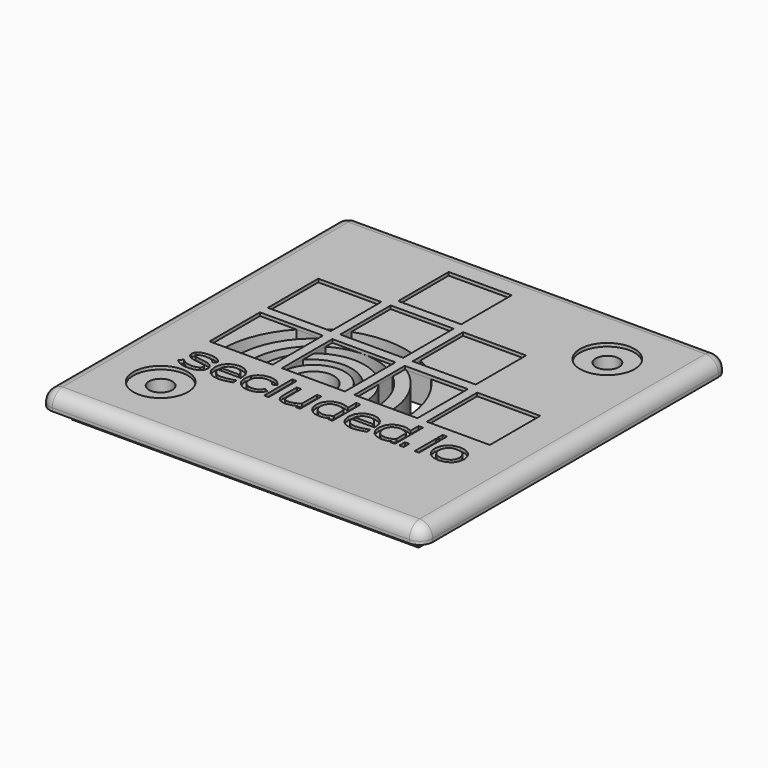
from build123d import *

# Parameters (mm, degrees)
F0_W      = 59
F0_H      = 59
F1_DEPTH  = 2.5
F2_W      = 53.4
F2_H      = 53.4
F3_DEPTH  = 2
F4_R      = 1.8
F5_DEPTH  = 4.501
F6_R      = 2
F7_R      = 2
F8_R      = 4.2
F9_DEPTH  = 0.5
F10_W     = 0.682628
F10_H     = 5.399403
F10_W_2   = 0.678041
F10_H_2   = 1.080825
F10_H_3   = 1.080824
F10_H_4   = 4.100509
F10_W_3   = 9.708501
F10_H_5   = 9.708501
F10_W_4   = 9.708415
F10_W_5   = 9.708393
F10_W_6   = 9.708611
F10_H_6   = 9.708436
F10_H_7   = 9.708611
F11_DEPTH = 0.5
F13_DEPTH = 4.001


with BuildPart() as f1:
    # F0 (on Top) → F1 (new body)
    with BuildSketch(Plane.XY):
        Rectangle(F0_W, F0_H)
    extrude(amount=F1_DEPTH)

    # F2 (on face) → F3 (join)
    with BuildSketch(Plane(origin=(0, 0, 0), x_dir=(1, 0, 0), z_dir=(0, 0, -1))):
        Rectangle(F2_W, F2_H)
    extrude(amount=F3_DEPTH)

    # F4 (on face) → F5 (cut, through all)
    with BuildSketch(Plane.XY.offset(2.5)):
        with Locations((19.115, 19.115)):
            Circle(F4_R)
        with Locations((-19.115, -19.115)):
            Circle(F4_R)
    extrude(amount=-F5_DEPTH, mode=Mode.SUBTRACT)

    # F6
    f6_edges = [f1.edges().sort_by_distance(p)[0] for p in [
        (-29.5, -29.5, 1.25),
        (29.5, -29.5, 1.25),
        (29.5, 29.5, 1.25),
        (-29.5, 29.5, 1.25),
    ]]
    fillet(f6_edges, radius=F6_R)

    # F7
    f7_edges = [f1.edges().sort_by_distance(p)[0] for p in [
        (-29.5, 0, 2.5),
    ]]
    fillet(f7_edges, radius=F7_R)

    # F8 (on face) → F9 (cut)
    with BuildSketch(Plane.XY.offset(2.5)):
        with Locations((19.115, 19.115)):
            Circle(F8_R)
        with Locations((-19.115, -19.115)):
            Circle(F8_R)
    extrude(amount=-F9_DEPTH, mode=Mode.SUBTRACT)

    # F10 (on face) → F11 (cut)
    with BuildSketch(Plane.XY.offset(2.5)):
        Polygon((-16.986727, -13.390506), (-16.849262, -12.835884), (-16.948806, -12.385524), (-17.228498, -12.015747), (-17.484489, -11.854603), (-17.806842, -11.731337), (-18.228739, -11.631794), (-18.783383, -11.53225), (-19.361727, -11.442165), (-19.7125, -11.366322), (-19.906847, -11.29996), (-20.030135, -11.219355), (-20.124938, -11.119811), (-20.143899, -11.015528), (-20.101238, -10.873301), (-19.930591, -10.740576), (-19.484972, -10.61257), (-18.892407, -10.57941), (-18.394667, -10.622072), (-18.00593, -10.745316), (-17.702537, -10.949165), (-17.456048, -11.243078), (-16.920365, -10.778497), (-17.152655, -10.517766), (-17.351764, -10.3329), (-17.536631, -10.200175), (-17.721497, -10.105371), (-18.295102, -9.948902), (-18.892407, -9.910981), (-19.627199, -9.967863), (-20.224482, -10.138531), (-20.66534, -10.479845), (-20.826527, -11.015528), (-20.717482, -11.451667), (-20.414089, -11.783479), (-20.1676, -11.925706), (-19.868926, -12.02999), (-19.470729, -12.115335), (-18.916108, -12.200636), (-18.361486, -12.295461), (-18.015432, -12.371304), (-17.806842, -12.451887), (-17.669356, -12.537232), (-17.560354, -12.684177), (-17.52715, -12.854845), (-17.768921, -13.248279), (-18.261942, -13.447388), (-18.863944, -13.50427), (-19.864207, -13.333624), (-20.570514, -12.835884), (-21.073016, -13.338364), (-20.788606, -13.580134), (-20.542095, -13.760239), (-20.309827, -13.892986), (-20.058554, -13.992551), (-19.494452, -14.120536), (-18.835525, -14.172678), (-18.00949, -14.076695), (-17.375465, -13.788702), align=None)
        Polygon((-15.743558, -12.295461), (-12.192908, -12.295461), (-12.349378, -11.238316), (-12.757032, -10.56045), (-13.444401, -10.076909), (-14.255035, -9.910981), (-15.11305, -10.057948), (-15.786219, -10.451404), (-16.274479, -11.124552), (-16.445147, -11.996787), (-16.283959, -12.916467), (-15.833599, -13.589593), (-15.094089, -14.035213), (-14.255035, -14.172678), (-13.762014, -14.125276), (-13.221613, -14.020992), (-12.723851, -13.902488), (-12.358836, -13.798182), (-12.211869, -13.755521), (-12.259293, -13.096593), (-12.614849, -13.205617), (-13.122047, -13.343082), (-13.700392, -13.46163), (-14.269256, -13.50901), (-14.757537, -13.447388), (-15.203135, -13.243539), (-15.553929, -12.864303), align=None)
        Polygon((-13.098346, -11.290479), (-12.9277, -11.717138), (-15.738796, -11.717138), (-15.568128, -11.290479), (-15.250536, -10.925465), (-14.809657, -10.674214), (-14.255035, -10.574648), (-13.776256, -10.674214), (-13.387519, -10.930205), align=None, mode=Mode.SUBTRACT)
        Polygon((-7.887392, -13.475829), (-7.522377, -12.982808), (-8.133881, -12.674696), (-8.399352, -13.034971), (-8.702745, -13.300421), (-9.07724, -13.456868), (-9.556041, -13.50901), (-10.153346, -13.428427), (-10.655826, -13.162956), (-11.006621, -12.707878), (-11.134627, -12.03947), (-11.006621, -11.399503), (-10.655826, -10.939685), (-10.148606, -10.664733), (-9.556041, -10.574648), (-9.124664, -10.617332), (-8.778588, -10.740576), (-8.484697, -10.963386), (-8.209746, -11.295198), (-7.617181, -10.949165), (-8.029619, -10.479845), (-8.465737, -10.157491), (-8.963476, -9.972625), (-9.556041, -9.910981), (-10.376156, -10.038987), (-11.101446, -10.432443), (-11.618146, -11.096111), (-11.812493, -12.03947), (-11.622886, -13.00653), (-11.110904, -13.670198), (-10.385615, -14.049433), (-9.556041, -14.172678), (-8.868673, -14.087355), (-8.32351, -13.845584), align=None)
        with Locations((-6.83739, -11.392393)):
            Rectangle(F10_W, F10_H)
        Polygon((-2.330362, -14.092095), (-1.643059, -14.092095), (-1.643059, -13.24804), (-1.643059, -9.991586), (-2.325622, -9.991586), (-2.325622, -12.883264), (-2.757021, -13.162956), (-3.131538, -13.343082), (-3.543933, -13.471089), (-3.91371, -13.50901), (-4.368788, -13.437908), (-4.591598, -13.295702), (-4.719561, -13.077611), (-4.752764, -12.76476), (-4.752764, -9.991586), (-5.435392, -9.991586), (-5.435392, -12.7695), (-5.350069, -13.328884), (-5.075117, -13.755521), (-4.582096, -14.068394), (-3.92793, -14.172678), (-2.913447, -13.964088), (-2.614794, -13.831363), (-2.316163, -13.665436), (-2.320904, -13.850324), (-2.330362, -14.016252), align=None)
        Polygon((2.65302, -14.092095), (3.340454, -14.092095), (3.340454, -8.692692), (2.662632, -8.692692), (2.662632, -10.266537), (2.027187, -9.996326), (1.35417, -9.910981), (0.448732, -10.076909), (-0.238702, -10.522528), (-0.679516, -11.200394), (-0.83592, -12.03947), (-0.69852, -12.831122), (-0.281298, -13.51375), (0.406136, -13.992551), (1.363563, -14.172678), (2.036798, -14.082614), (2.662632, -13.802944), (2.657826, -13.921449), (2.65302, -14.035213), align=None)
        Polygon((2.662632, -11.096111), (2.662632, -12.982808), (2.596226, -13.03969), (2.525014, -13.091853), (2.240604, -13.290962), (1.866196, -13.447388), (1.363563, -13.50901), (0.709551, -13.390506), (0.230728, -13.072893), (-0.063294, -12.603572), (-0.158097, -12.03947), (-0.058488, -11.470628), (0.235315, -11.001307), (0.709551, -10.688412), (1.358976, -10.574648), (2.036798, -10.688412), align=None, mode=Mode.SUBTRACT)
        Polygon((4.856216, -12.295461), (8.406975, -12.295461), (8.250353, -11.238316), (7.842523, -10.56045), (7.155308, -10.076909), (6.344673, -9.910981), (5.486637, -10.057948), (4.813402, -10.451404), (4.325186, -11.124552), (4.154584, -11.996787), (4.315793, -12.916467), (4.766219, -13.589593), (5.505641, -14.035213), (6.344673, -14.172678), (6.837695, -14.125276), (7.378118, -14.020992), (7.875945, -13.902488), (8.24096, -13.798182), (8.387752, -13.755521), (8.34035, -13.096593), (7.984947, -13.205617), (7.477508, -13.343082), (6.899295, -13.46163), (6.330475, -13.50901), (5.842259, -13.447388), (5.396639, -13.243539), (5.045823, -12.864303), align=None)
        Polygon((7.501319, -11.290479), (7.672139, -11.717138), (4.861022, -11.717138), (5.031624, -11.290479), (5.349238, -10.925465), (5.790052, -10.674214), (6.344673, -10.574648), (6.823496, -10.674214), (7.212103, -10.930205), align=None, mode=Mode.SUBTRACT)
        Polygon((12.276221, -14.092095), (12.963436, -14.092095), (12.963436, -8.692692), (12.285832, -8.692692), (12.285832, -10.266537), (11.650387, -9.996326), (10.977152, -9.910981), (10.071932, -10.076909), (9.384499, -10.522528), (8.943685, -11.200394), (8.787281, -12.03947), (8.92468, -12.831122), (9.341903, -13.51375), (10.029118, -13.992551), (10.986982, -14.172678), (11.65978, -14.082614), (12.285832, -13.802944), (12.280808, -13.921449), (12.276221, -14.035213), align=None)
        Polygon((12.285832, -11.096111), (12.285832, -12.982808), (12.219208, -13.03969), (12.148214, -13.091853), (11.863804, -13.290962), (11.489396, -13.447388), (10.986982, -13.50901), (10.332533, -13.390506), (9.85371, -13.072893), (9.559688, -12.603572), (9.465103, -12.03947), (9.564712, -11.470628), (9.858516, -11.001307), (10.332533, -10.688412), (10.982176, -10.574648), (11.65978, -10.688412), align=None, mode=Mode.SUBTRACT)
        with Locations((13.969793, -13.551682)):
            Rectangle(F10_W_2, F10_H_2)
        with Locations((16.330595, -9.233104)):
            Rectangle(F10_W, F10_H_3)
        with Locations((16.330595, -12.04184)):
            Rectangle(F10_W, F10_H_4)
        Polygon((21.850709, -12.831122), (21.988108, -12.04895), (21.808331, -11.143512), (21.31531, -10.475105), (20.589867, -10.057948), (19.717632, -9.910981), (18.840592, -10.057948), (18.115367, -10.470386), (17.622346, -11.138772), (17.442132, -12.03947), (17.584337, -12.854845), (18.010953, -13.532711), (18.722197, -13.997291), (19.717632, -14.172678), (20.722461, -13.992551), (21.433486, -13.51375), align=None)
        Polygon((21.187303, -11.437425), (21.30548, -12.04895), (21.210895, -12.603572), (20.921679, -13.072893), (20.428658, -13.399964), (19.722438, -13.518512), (19.006388, -13.399964), (18.503974, -13.072893), (18.214977, -12.603572), (18.119955, -12.04895), (18.238568, -11.437425), (18.57038, -10.972844), (19.072794, -10.678954), (19.717632, -10.57941), (20.357446, -10.678954), (20.860079, -10.972844), align=None, mode=Mode.SUBTRACT)
        with Locations((-16.267368, -2.340459)):
            Rectangle(F10_W_3, F10_H_5)
        with Locations((-5.10951, -2.340459)):
            Rectangle(F10_W_4, F10_H_5)
        with Locations((6.047156, -2.340459)):
            Rectangle(F10_W_5, F10_H_5)
        with Locations((17.205233, -2.340459)):
            Rectangle(F10_W_6, F10_H_5)
        with Locations((-5.10951, 8.888512)):
            Rectangle(F10_W_4, F10_H_6)
        with Locations((6.047156, 8.888512)):
            Rectangle(F10_W_5, F10_H_6)
        with Locations((-16.267368, 8.888512)):
            Rectangle(F10_W_3, F10_H_6)
        with Locations((-5.10951, 20.0536)):
            Rectangle(F10_W_4, F10_H_7)
    extrude(amount=-F11_DEPTH, mode=Mode.SUBTRACT)

    # F12 (on face) → F13 (cut, through all)
    with BuildSketch(Plane.XY.offset(2)):
        with BuildLine():
            Line((2.73984, -7.19471), (4.598991, -7.19471))
            ThreePointArc((4.598991, -7.19471), (3.706457, -3.128542), (1.19296, 0.189994))
            Line((1.19296, 0.189994), (1.19296, -2.515911))
            ThreePointArc((1.19296, -2.515911), (2.343094, -4.73077), (2.73984, -7.19471))
        make_face()
        with BuildLine():
            Line((6.598991, -7.19471), (9.098991, -7.19471))
            ThreePointArc((9.098991, -7.19471), (8.105728, -1.975612), (5.264809, 2.513791))
            Line((5.264809, 2.513791), (1.435259, 2.513791))
            ThreePointArc((1.435259, 2.513791), (5.227763, -1.696549), (6.598991, -7.19471))
        make_face()
        with BuildLine():
            Line((-8.263718, -7.19471), (-1.955303, -7.19471))
            ThreePointArc((-1.955303, -7.19471), (-5.109511, -4.040503), (-8.263718, -7.19471))
        make_face()
        with BuildLine():
            ThreePointArc((-9.963718, -7.19471), (-5.109511, -2.340503), (-0.255303, -7.19471))
            Line((-0.255303, -7.19471), (-0.255303, -3.755023))
            ThreePointArc((-0.255303, -3.755023), (-4.963516, -1.130133), (-9.963718, -3.143909))
            Line((-9.963718, -3.143909), (-9.963718, -7.19471))
        make_face()
        with BuildLine():
            Line((-19.318012, -7.19471), (-16.818012, -7.19471))
            ThreePointArc((-16.818012, -7.19471), (-15.446784, -1.696549), (-11.65428, 2.513791))
            Line((-11.65428, 2.513791), (-15.483831, 2.513791))
            ThreePointArc((-15.483831, 2.513791), (-18.324749, -1.975612), (-19.318012, -7.19471))
        make_face()
        with BuildLine():
            ThreePointArc((-11.413118, 0.189025), (-13.925791, -3.12922), (-14.818012, -7.19471))
            Line((-14.818012, -7.19471), (-12.958862, -7.19471))
            ThreePointArc((-12.958862, -7.19471), (-12.562414, -4.731675), (-11.413118, -2.517441))
            Line((-11.413118, -2.517441), (-11.413118, 0.189025))
        make_face()
        with BuildLine():
            Line((-9.963718, 1.213124), (-9.963718, -1.026325))
            ThreePointArc((-9.963718, -1.026325), (-5.109511, 0.65464), (-0.255303, -1.026325))
            Line((-0.255303, -1.026325), (-0.255303, 1.213124))
            ThreePointArc((-0.255303, 1.213124), (-5.109511, 2.513791), (-9.963718, 1.213124))
        make_face()
        with BuildLine():
            ThreePointArc((3.596291, 4.034294), (2.432272, 4.84701), (1.19296, 5.53951))
            Line((1.19296, 5.53951), (1.19296, 4.034294))
            Line((1.19296, 4.034294), (3.596291, 4.034294))
        make_face()
        with BuildLine():
            Line((-11.413118, 4.034294), (-11.413118, 5.538948))
            ThreePointArc((-11.413118, 5.538948), (-12.65183, 4.846674), (-13.815313, 4.034294))
            Line((-13.815313, 4.034294), (-11.413118, 4.034294))
        make_face()
        with BuildLine():
            Line((-0.255303, 4.034294), (-0.255303, 6.158873))
            ThreePointArc((-0.255303, 6.158873), (-5.109511, 7.013791), (-9.963718, 6.158873))
            Line((-9.963718, 6.158873), (-9.963718, 4.034294))
            Line((-9.963718, 4.034294), (-8.425906, 4.034294))
            ThreePointArc((-8.425906, 4.034294), (-5.109511, 4.513791), (-1.793115, 4.034294))
            Line((-1.793115, 4.034294), (-0.255303, 4.034294))
        make_face()
    extrude(amount=-F13_DEPTH, mode=Mode.SUBTRACT)


solid = f1.part
